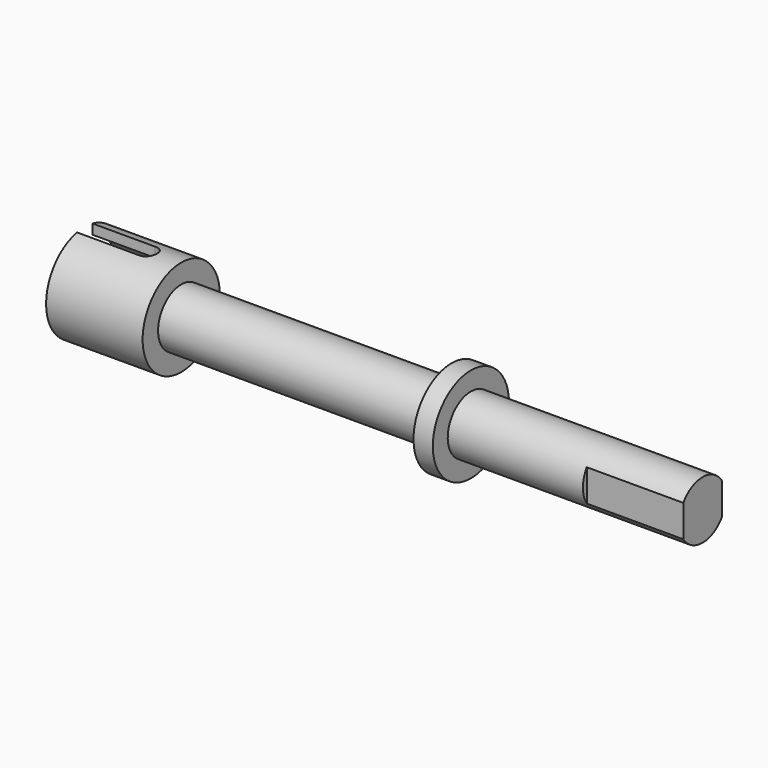
from build123d import *

# Parameters (mm, degrees)
F0_R     = 5
F1_DEPTH = 64
F4_W     = 18.964292
F4_H     = 17.682846
F4_W_2   = 5
F4_H_2   = 14.245734
F5_DEPTH = 10
F6_W     = 13
F6_H     = 2
F7_DEPTH = 12.5
F8_R     = 4
F9_DEPTH = 8


with BuildPart() as f1:
    # F0 (on Right) → F1 (new body)
    with BuildSketch(Plane.YZ):
        Circle(F0_R)
    extrude(amount=F1_DEPTH)

    # F2 (on Front) → F3 (revolve, cut)
    with BuildSketch(Plane.XZ):
        Polygon((10, 6.419506), (10, 3), (38, 3), (38, 4.927536), (40, 4.927536), (40, 3), (64, 3), (64, 6.419506), align=None)
    revolve(axis=Axis((28.04348, 0, 0), (1, 0, 0)), mode=Mode.SUBTRACT)

    # F4 (on face) → F5 (cut)
    with BuildSketch(Plane.YZ.offset(64)):
        Rectangle(F4_W, F4_H)
        Rectangle(F4_W_2, F4_H_2, mode=Mode.SUBTRACT)
    extrude(amount=-F5_DEPTH, mode=Mode.SUBTRACT)

    # F6 (on Top) → F7 (cut, symmetric)
    with BuildSketch(Plane.XY):
        Rectangle(F6_W, F6_H)
        with BuildLine():
            Line((6.5, 1), (6.5, -1))
            ThreePointArc((6.5, -1), (7.5, 0), (6.5, 1))
        make_face()
    extrude(amount=F7_DEPTH, both=True, mode=Mode.SUBTRACT)

    # F8 (on face) → F9 (cut)
    with BuildSketch(Plane(origin=(0, 0, 0), x_dir=(0, -1, 0), z_dir=(-1, 0, 0))):
        Circle(F8_R)
    extrude(amount=-F9_DEPTH, mode=Mode.SUBTRACT)


solid = f1.part
